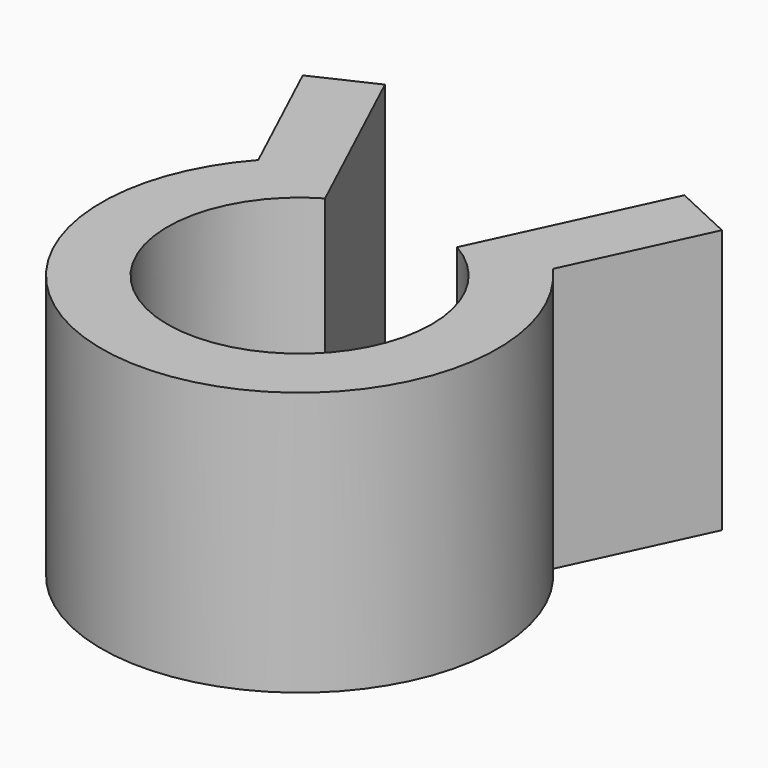
from build123d import *

# Parameters (mm, degrees)
F1_DEPTH = 4


with BuildPart() as f1:
    # F0 (on Top) → F1 (new body)
    with BuildSketch(Plane.XY):
        with BuildLine():
            ThreePointArc((1, 1.732051), (1.732051, 1), (2, 0))
            ThreePointArc((2, 0), (-1, -1.732051), (-1, 1.732051))
            Line((-1, 1.732051), (-2.267855, 4.450974))
            Line((-2.267855, 4.450974), (-3.174163, 4.028356))
            Line((-3.174163, 4.028356), (-2.230974, 2.005681))
            ThreePointArc((-2.230974, 2.005681), (0, -3), (2.230974, 2.005681))
            Line((2.230974, 2.005681), (3.174163, 4.028356))
            Line((3.174163, 4.028356), (2.267855, 4.450974))
            Line((2.267855, 4.450974), (1, 1.732051))
        make_face()
    extrude(amount=F1_DEPTH)


solid = f1.part
